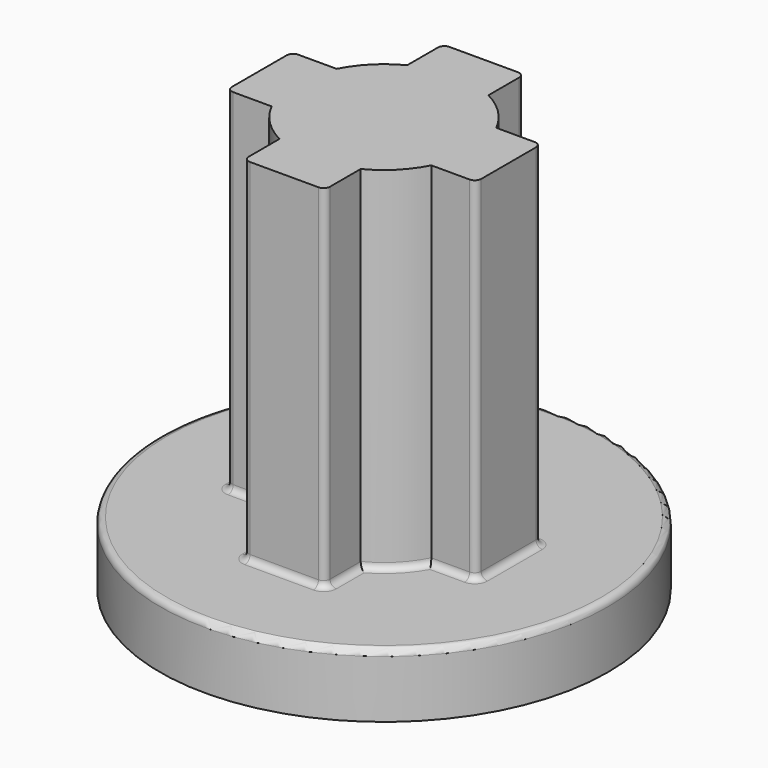
from build123d import *

# Parameters (mm, degrees)
SKETCH_R     = 7
PAD_DEPTH    = 2
PAD001_DEPTH = 11
SKETCH002_W  = 3.4
SKETCH002_H  = 3.4
POCKET_DEPTH = 8.5
FILLET_R     = 0.2
FILLET001_R  = 0.2
CHAMFER_SIZE = 1.6
FILLET002_R  = 0.5


with BuildPart() as part:
    # Sketch → Pad (new body)
    with BuildSketch(Plane.XY):
        Circle(SKETCH_R)
    extrude(amount=PAD_DEPTH)

    # Sketch001 (on Face3 of Pad) → Pad001 (join)
    with BuildSketch(Plane.XY.offset(2)):
        with BuildLine():
            ThreePointArc((-1.27, 2.495416), (-1.979899, 1.979899), (-2.495416, 1.27))
            Line((-2.495416, 1.27), (-3.895416, 1.27))
            Line((-3.895416, 1.27), (-3.895416, -1.27))
            Line((-3.895416, -1.27), (-2.495416, -1.27))
            ThreePointArc((-2.495416, -1.27), (-1.979899, -1.979899), (-1.27, -2.495416))
            Line((-1.27, -2.495416), (-1.27, -3.895416))
            Line((-1.27, -3.895416), (1.27, -3.895416))
            Line((1.27, -3.895416), (1.27, -2.495416))
            ThreePointArc((1.27, -2.495416), (1.979899, -1.979899), (2.495416, -1.27))
            Line((3.895416, -1.27), (2.495416, -1.27))
            Line((3.895416, 1.27), (3.895416, -1.27))
            Line((2.495416, 1.27), (3.895416, 1.27))
            ThreePointArc((2.495416, 1.27), (1.979899, 1.979899), (1.27, 2.495416))
            Line((1.27, 3.895416), (1.27, 2.495416))
            Line((-1.27, 3.895416), (1.27, 3.895416))
            Line((-1.27, 2.495416), (-1.27, 3.895416))
        make_face()
    extrude(amount=PAD001_DEPTH)

    # Sketch002 (on Face2 of Pad001) → Pocket (cut)
    with BuildSketch(Plane(origin=(0, 0, 0), x_dir=(1, 0, 0), z_dir=(0, 0, -1))):
        Rectangle(SKETCH002_W, SKETCH002_H)
    extrude(amount=-POCKET_DEPTH, mode=Mode.SUBTRACT)

    # Fillet
    fillet_edges = [part.edges().sort_by_distance(p)[0] for p in [
        (-3.895416, -1.27, 7.5),
        (-1.27, -3.895416, 7.5),
        (1.27, -3.895416, 7.5),
        (3.895416, -1.27, 7.5),
        (3.895416, 1.27, 7.5),
        (1.27, 3.895416, 7.5),
        (-1.27, 3.895416, 7.5),
        (-3.895416, 1.27, 7.5),
    ]]
    fillet(fillet_edges, radius=FILLET_R)

    # Fillet001
    fillet001_edges = [part.edges().sort_by_distance(p)[0] for p in [
        (1.27, 3.095416, 2),
        (1.211421, 3.836837, 2),
        (1.979899, 1.979899, 2),
        (0, 3.895416, 2),
        (3.095416, 1.27, 2),
        (-1.211421, 3.836837, 2),
        (3.836837, 1.211421, 2),
        (-1.27, 3.095416, 2),
        (3.895416, 0, 2),
        (-1.979899, 1.979899, 2),
        (3.836837, -1.211421, 2),
        (-3.095416, 1.27, 2),
        (3.095416, -1.27, 2),
        (-3.836837, 1.211421, 2),
        (1.979899, -1.979899, 2),
        (-3.895416, 0, 2),
        (1.27, -3.095416, 2),
        (-3.836837, -1.211421, 2),
        (1.211421, -3.836837, 2),
        (-3.095416, -1.27, 2),
        (0, -3.895416, 2),
        (-1.979899, -1.979899, 2),
        (-1.211421, -3.836837, 2),
        (-1.27, -3.095416, 2),
        (-7, 0, 2),
    ]]
    fillet(fillet001_edges, radius=FILLET001_R)

    # Chamfer
    chamfer_edges = [part.edges().sort_by_distance(p)[0] for p in [
        (-1.7, 0, 8.5),
        (0, -1.7, 8.5),
        (1.7, 0, 8.5),
        (0, 1.7, 8.5),
    ]]
    chamfer(chamfer_edges, length=CHAMFER_SIZE)

    # Fillet002
    fillet002_edges = [part.edges().sort_by_distance(p)[0] for p in [
        (-1.7, 1.7, 3.45),
        (-1.7, -1.7, 3.45),
        (1.7, -1.7, 3.45),
        (1.7, 1.7, 3.45),
    ]]
    fillet(fillet002_edges, radius=FILLET002_R)


solid = part.part
